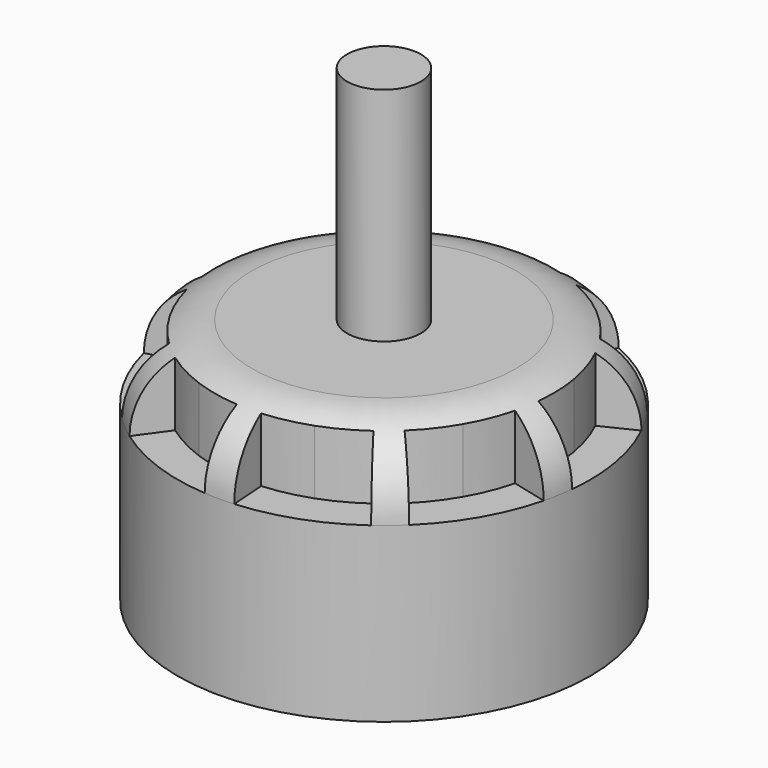
from build123d import *

# Parameters (mm, degrees)
F0_R     = 13.95
F1_DEPTH = 16.7
F2_R     = 5
F4_DEPTH = 5
F5_R     = 2.5
F6_DEPTH = 15


with BuildPart() as f1:
    # F0 (on Top) → F1 (new body)
    with BuildSketch(Plane.XY):
        Circle(F0_R)
    extrude(amount=F1_DEPTH)

    # F2
    f2_edges = [f1.edges().sort_by_distance(p)[0] for p in [
        (-13.95, 0, 16.7),
    ]]
    fillet(f2_edges, radius=F2_R)

    # F3 (on face) → F4 (cut)
    with BuildSketch(Plane.XY.offset(16.7)):
        with BuildLine():
            Line((-3.819213803, 13.417008084), (-3.1347668849, 11.0125263485))
            ThreePointArc((-3.1347668849, 11.0125263485), (-1.582572796, 11.3401042035), (0, 11.45))
            ThreePointArc((0, 11.45), (1.582572796, 11.3401042035), (3.1347668849, 11.0125263485))
            Line((3.1347668849, 11.0125263485), (3.819213803, 13.417008084))
            ThreePointArc((3.819213803, 13.417008084), (1.9281127078, 13.8161094881), (0, 13.95))
            ThreePointArc((0, 13.95), (-1.9281127078, 13.8161094881), (-3.819213803, 13.417008084))
        make_face()
        with BuildLine():
            ThreePointArc((-8.9668871551, 10.6863199815), (-10.3578440185, 9.3443869402), (-11.5499740664, 7.8230811747))
            Line((-11.5499740664, 7.8230811747), (-9.4800862408, 6.4210953011))
            ThreePointArc((-9.4800862408, 6.4210953011), (-8.5015995707, 7.6697656248), (-7.3599181309, 8.7712088737))
            ThreePointArc((-7.3599181309, 8.7712088737), (-6.0769573783, 9.7042819941), (-4.6773447355, 10.4510739269))
            Line((-4.6773447355, 10.4510739269), (-5.6985990446, 12.7329677974))
            ThreePointArc((-5.6985990446, 12.7329677974), (-7.4038039675, 11.8231208575), (-8.9668871551, 10.6863199815))
        make_face()
        with BuildLine():
            ThreePointArc((-13.7380681545, 2.4223920785), (-13.9410249984, 0.5003218917), (-13.8763731004, -1.4313523601))
            Line((-13.8763731004, -1.4313523601), (-11.3895678853, -1.1748376002))
            ThreePointArc((-11.3895678853, -1.1748376002), (-11.4426334216, 0.4106584703), (-11.276048772, 1.9882716343))
            ThreePointArc((-11.276048772, 1.9882716343), (-10.8930116575, 3.5277183887), (-10.3008747713, 4.9994478641))
            Line((-10.3008747713, 4.9994478641), (-12.5499740664, 6.0910303672))
            ThreePointArc((-12.5499740664, 6.0910303672), (-13.2713984823, 4.2979625784), (-13.7380681545, 2.4223920785))
        make_face()
        with BuildLine():
            ThreePointArc((-12.0810543828, -6.975), (-11.0010454442, -8.5778493303), (-9.709862942, -10.0160402179))
            Line((-9.709862942, -10.0160402179), (-7.9697441352, -8.2210509315))
            ThreePointArc((-7.9697441352, -8.2210509315), (-9.0295319238, -7.0406003464), (-9.9159908733, -5.725))
            ThreePointArc((-9.9159908733, -5.725), (-10.6121047198, -4.2995038571), (-11.1045110201, -2.791475417))
            Line((-11.1045110201, -2.791475417), (-13.5290767451, -3.4009678661))
            ThreePointArc((-13.5290767451, -3.4009678661), (-12.929158152, -5.2382601577), (-12.0810543828, -6.975))
        make_face()
        with BuildLine():
            ThreePointArc((-4.7711809994, -13.10871206), (-2.9135544638, -13.6423495186), (-1, -13.9141115419))
            Line((-1, -13.9141115419), (-0.8207885305, -11.4205431652))
            ThreePointArc((-0.8207885305, -11.4205431652), (-2.3914120867, -11.1974840134), (-3.9161306411, -10.759480508))
            ThreePointArc((-3.9161306411, -10.759480508), (-5.3656760432, -10.1149404644), (-6.7122231497, -9.2762363267))
            Line((-6.7122231497, -9.2762363267), (-8.1777740558, -11.3016154373))
            ThreePointArc((-8.1777740558, -11.3016154373), (-6.5372210309, -12.3234427492), (-4.7711809994, -13.10871206))
        make_face()
        with BuildLine():
            ThreePointArc((4.7711809994, -13.10871206), (6.5372210309, -12.3234427492), (8.1777740558, -11.3016154373))
            Line((8.1777740558, -11.3016154373), (6.7122231497, -9.2762363267))
            ThreePointArc((6.7122231497, -9.2762363267), (5.3656760432, -10.1149404644), (3.9161306411, -10.759480508))
            ThreePointArc((3.9161306411, -10.759480508), (2.3914120867, -11.1974840134), (0.8207885305, -11.4205431652))
            Line((0.8207885305, -11.4205431652), (1, -13.9141115419))
            ThreePointArc((1, -13.9141115419), (2.9135544638, -13.6423495186), (4.7711809994, -13.10871206))
        make_face()
        with BuildLine():
            ThreePointArc((12.0810543828, -6.975), (12.929158152, -5.2382601577), (13.5290767451, -3.4009678661))
            Line((13.5290767451, -3.4009678661), (11.1045110201, -2.791475417))
            ThreePointArc((11.1045110201, -2.791475417), (10.6121047198, -4.2995038571), (9.9159908733, -5.725))
            ThreePointArc((9.9159908733, -5.725), (9.0295319238, -7.0406003464), (7.9697441352, -8.2210509315))
            Line((7.9697441352, -8.2210509315), (9.709862942, -10.0160402179))
            ThreePointArc((9.709862942, -10.0160402179), (11.0010454442, -8.5778493303), (12.0810543828, -6.975))
        make_face()
        with BuildLine():
            ThreePointArc((13.7380681545, 2.4223920785), (13.2713984823, 4.2979625784), (12.5499740664, 6.0910303672))
            Line((12.5499740664, 6.0910303672), (10.3008747713, 4.9994478641))
            ThreePointArc((10.3008747713, 4.9994478641), (10.8930116575, 3.5277183887), (11.276048772, 1.9882716343))
            ThreePointArc((11.276048772, 1.9882716343), (11.4426334216, 0.4106584703), (11.3895678853, -1.1748376002))
            Line((11.3895678853, -1.1748376002), (13.8763731004, -1.4313523601))
            ThreePointArc((13.8763731004, -1.4313523601), (13.9410249984, 0.5003218917), (13.7380681545, 2.4223920785))
        make_face()
        with BuildLine():
            ThreePointArc((8.9668871551, 10.6863199815), (7.4038039675, 11.8231208575), (5.6985990446, 12.7329677974))
            Line((5.6985990446, 12.7329677974), (4.6773447355, 10.4510739269))
            ThreePointArc((4.6773447355, 10.4510739269), (6.0769573783, 9.7042819941), (7.3599181309, 8.7712088737))
            ThreePointArc((7.3599181309, 8.7712088737), (8.5015995707, 7.6697656248), (9.4800862408, 6.4210953011))
            Line((9.4800862408, 6.4210953011), (11.5499740664, 7.8230811747))
            ThreePointArc((11.5499740664, 7.8230811747), (10.3578440185, 9.3443869402), (8.9668871551, 10.6863199815))
        make_face()
    extrude(amount=-F4_DEPTH, mode=Mode.SUBTRACT)

    # F5 (on face) → F6 (join)
    with BuildSketch(Plane.XY.offset(16.7)):
        Circle(F5_R)
    extrude(amount=F6_DEPTH)


solid = f1.part
